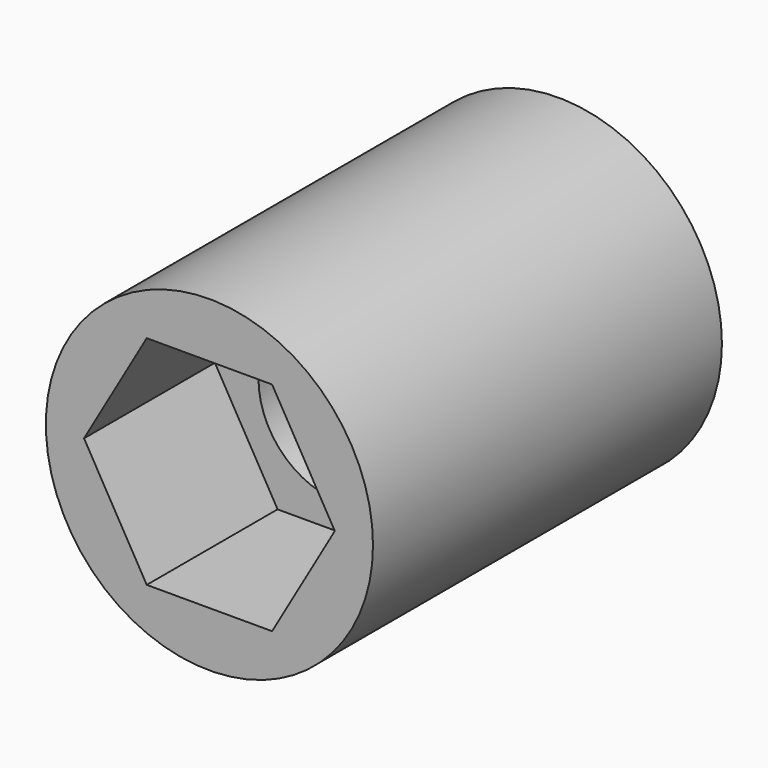
from build123d import *

# Parameters (mm, degrees)
F0_R        = 9.525
F1_DEPTH    = 25.4
F3_DEPTH    = 25.401
F1_FACE_R   = 9.525
F1_FACE_R_2 = 4.7625
F4_DEPTH    = 11.0998
F5_R        = 4.7625
F6_DEPTH    = 9.525


with BuildPart() as f1:
    # F0 (on Front) → F1 (new body)
    with BuildSketch(Plane.XZ):
        Circle(F0_R)
    extrude(amount=F1_DEPTH)

    # F2 (on Front) → F3 (cut, through all)
    with BuildSketch(Plane.XZ):
        with BuildLine():
            ThreePointArc((4.7625, 0), (3.3675960454, 3.3675960454), (0, 4.7625))
            ThreePointArc((0, 4.7625), (-3.3675960454, 3.3675960454), (-4.7625, 0))
            ThreePointArc((-4.7625, 0), (-3.3675960454, -3.3675960454), (0, -4.7625))
            ThreePointArc((0, -4.7625), (3.3675960454, -3.3675960454), (4.7625, 0))
        make_face()
    extrude(amount=F3_DEPTH, mode=Mode.SUBTRACT)

    # F2 (on Front) + F1_face (on face) → F4 (cut)
    with BuildSketch(Plane.XZ):
        with BuildLine():
            Line((4.7625, 0), (4.7625, 4.7625))
            Line((4.7625, 4.7625), (0, 4.7625))
            ThreePointArc((0, 4.7625), (3.3675960454, 3.3675960454), (4.7625, 0))
        make_face()
        with BuildLine():
            ThreePointArc((-4.7625, 0), (-3.3675960454, 3.3675960454), (0, 4.7625))
            Line((0, 4.7625), (-4.7625, 4.7625))
            Line((-4.7625, 4.7625), (-4.7625, 0))
        make_face()
        with BuildLine():
            ThreePointArc((4.7625, 0), (3.3675960454, 3.3675960454), (0, 4.7625))
            ThreePointArc((0, 4.7625), (-3.3675960454, 3.3675960454), (-4.7625, 0))
            ThreePointArc((-4.7625, 0), (-3.3675960454, -3.3675960454), (0, -4.7625))
            ThreePointArc((0, -4.7625), (3.3675960454, -3.3675960454), (4.7625, 0))
        make_face()
        with BuildLine():
            Line((4.7625, -4.7625), (4.7625, 0))
            ThreePointArc((4.7625, 0), (3.3675960454, -3.3675960454), (0, -4.7625))
            Line((0, -4.7625), (4.7625, -4.7625))
        make_face()
        with BuildLine():
            ThreePointArc((0, -4.7625), (-3.3675960454, -3.3675960454), (-4.7625, 0))
            Line((-4.7625, 0), (-4.7625, -4.7625))
            Line((-4.7625, -4.7625), (0, -4.7625))
        make_face()
    with BuildSketch(Plane.XZ.offset(25.4)):
        Circle(F1_FACE_R)
        Circle(F1_FACE_R_2, mode=Mode.SUBTRACT)
    extrude(amount=F4_DEPTH, mode=Mode.SUBTRACT)

    # F5 (on face) → F6 (cut)
    with BuildSketch(Plane.XZ.offset(25.4)):
        Polygon((3.65125, 6.3241505111), (-3.65125, 6.3241505111), (-7.3025, 0), (-3.65125, -6.3241505111), (3.65125, -6.3241505111), (7.3025, 0), align=None)
        Circle(F5_R, mode=Mode.SUBTRACT)
    extrude(amount=-F6_DEPTH, mode=Mode.SUBTRACT)


solid = f1.part
